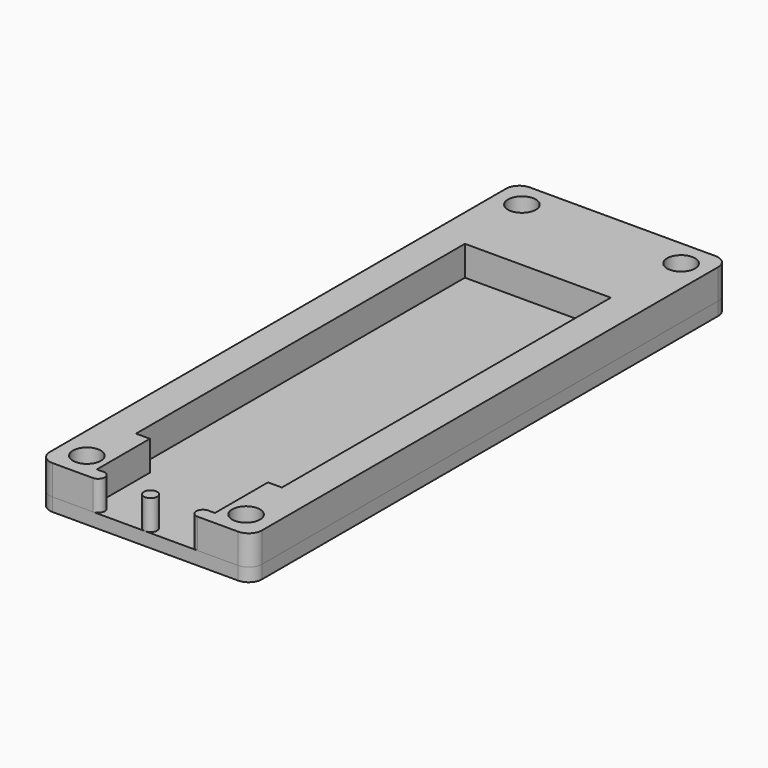
from build123d import *

# Parameters (mm, degrees)
SKETCH001_R      = 1
SKETCH001_R_2    = 2.1
EXTRUDE001_DEPTH = 4.5
FILLET001_R      = 2
SKETCH002_W      = 16
SKETCH002_H      = 39
EXTRUDE002_DEPTH = 2
SKETCH_W         = 32
SKETCH_H         = 90
SKETCH_R         = 2.1
SKETCH_W_2       = 16
SKETCH_H_2       = 39
EXTRUDE_DEPTH    = 2
FILLET_R         = 2


with BuildPart() as fillet001:
    # Sketch001 (on Face14 of Extrude) → Extrude001 (new body)
    with BuildSketch(Plane.XY.offset(2)):
        with Locations((0, -44)):
            Circle(SKETCH001_R)
        with BuildLine():
            ThreePointArc((7.9, -43), (6.9, -44), (7.9, -45))
            Line((7.9, -45), (16, -45))
            Line((16, -45), (16, 45))
            Line((-16, 45), (16, 45))
            Line((-16, -45), (-16, 45))
            Line((-7.9, -45), (-16, -45))
            ThreePointArc((-7.9, -45), (-6.9, -44), (-7.9, -43))
            Line((-7.9, -43), (-8.9, -43))
            Line((-8.9, -43), (-8.9, -33))
            Line((-8.9, -33), (-11, -33))
            Line((-11, 29), (-11, -33))
            Line((-11, 29), (11, 29))
            Line((11, 29), (11, -33))
            Line((11, -33), (8.9, -33))
            Line((8.9, -43), (8.9, -33))
            Line((7.9, -43), (8.9, -43))
        make_face()
        with Locations((-12, -41)):
            Circle(SKETCH001_R_2, mode=Mode.SUBTRACT)
        with Locations((12, 41)):
            Circle(SKETCH001_R_2, mode=Mode.SUBTRACT)
        with Locations((12, -41)):
            Circle(SKETCH001_R_2, mode=Mode.SUBTRACT)
        with Locations((-12, 41)):
            Circle(SKETCH001_R_2, mode=Mode.SUBTRACT)
    extrude(amount=EXTRUDE001_DEPTH)

    # Fillet001
    fillet001_edges = [fillet001.edges().sort_by_distance(p)[0] for p in [
        (16, -45, 4.25),
        (16, 45, 4.25),
        (-16, 45, 4.25),
        (-16, -45, 4.25),
    ]]
    fillet(fillet001_edges, radius=FILLET001_R)


with BuildPart() as extrude002:
    # Sketch002 → Extrude002 (new body)
    with BuildSketch(Plane.XY):
        with Locations((0, 9.5)):
            Rectangle(SKETCH002_W, SKETCH002_H)
    extrude(amount=EXTRUDE002_DEPTH)


with BuildPart() as fusion:
    # Sketch → Extrude (new body)
    with BuildSketch(Plane.XY):
        Rectangle(SKETCH_W, SKETCH_H)
        with Locations((-12, 41)):
            Circle(SKETCH_R, mode=Mode.SUBTRACT)
        with Locations((12, 41)):
            Circle(SKETCH_R, mode=Mode.SUBTRACT)
        with Locations((-12, -41)):
            Circle(SKETCH_R, mode=Mode.SUBTRACT)
        with Locations((12, -41)):
            Circle(SKETCH_R, mode=Mode.SUBTRACT)
        with Locations((0, 9.5)):
            Rectangle(SKETCH_W_2, SKETCH_H_2, mode=Mode.SUBTRACT)
    extrude(amount=EXTRUDE_DEPTH)

    # Fillet
    fillet_edges = [fusion.edges().sort_by_distance(p)[0] for p in [
        (-16, 45, 1),
        (16, 45, 1),
        (16, -45, 1),
        (-16, -45, 1),
    ]]
    fillet(fillet_edges, radius=FILLET_R)

    # Fusion: union Extrude002
    add(extrude002.part)


solid = Compound([fillet001.part, fusion.part])
